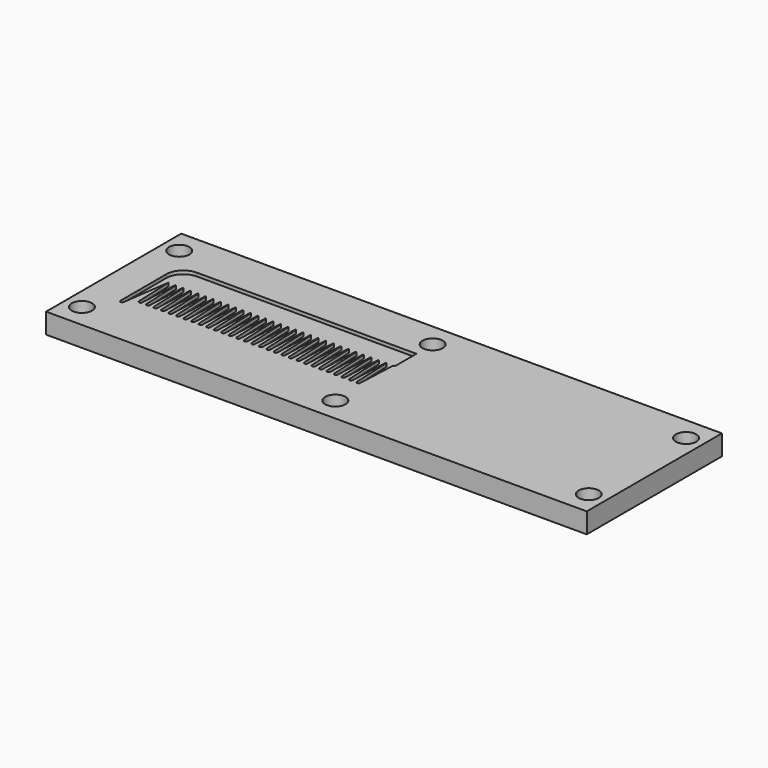
from build123d import *

# Parameters (mm, degrees)
SKETCH_W            = 160
SKETCH_H            = 50
SKETCH_R            = 3
PAD_DEPTH           = 6
POCKET_DEPTH        = 1
POCKET001_DEPTH     = 1
LINEARPATTERN_COUNT = 30
LINEARPATTERN_PITCH = 2.224138
FILLET_R            = 5


with BuildPart() as part:
    # Sketch → Pad (new body)
    with BuildSketch(Plane.XY):
        Rectangle(SKETCH_W, SKETCH_H)
        with Locations((-75, 18)):
            Circle(SKETCH_R, mode=Mode.SUBTRACT)
        with Locations((75, 18)):
            Circle(SKETCH_R, mode=Mode.SUBTRACT)
        with Locations((75, -18)):
            Circle(SKETCH_R, mode=Mode.SUBTRACT)
        with Locations((-75, -18)):
            Circle(SKETCH_R, mode=Mode.SUBTRACT)
        with Locations((0, -18)):
            Circle(SKETCH_R, mode=Mode.SUBTRACT)
        with Locations((0, 18)):
            Circle(SKETCH_R, mode=Mode.SUBTRACT)
    extrude(amount=PAD_DEPTH)

    # Sketch001 (on Face12 of Pad) → Pocket (cut)
    with BuildSketch(Plane.XY.offset(6)):
        with BuildLine():
            Line((-70, -10), (-70, 12))
            Line((-70, 12), (0, 12))
            Line((0, 12), (0, 4))
            Line((0, 4), (-67, 4))
            Line((-67, 4), (-69.005, -10.070536))
            ThreePointArc((-70, -10), (-69.535356, -10.498748), (-69.005, -10.070536))
        make_face()
    extrude(amount=-POCKET_DEPTH, mode=Mode.SUBTRACT)

    # Sketch002 → Pocket001 (cut)
    with BuildSketch(Plane.XY.offset(6)):
        with BuildLine():
            Line((-67, 4), (-66.5, -7.521698))
            ThreePointArc((-66.5, -7.521698), (-66, -8.000471), (-65.5, -7.521698))
            Line((-65, 4), (-65.5, -7.521698))
            Line((-67, 4), (-65, 4))
        make_face()
    pocket001 = extrude(amount=-POCKET001_DEPTH, mode=Mode.SUBTRACT)

    # LinearPattern: Pocket001 ×30
    with Locations(*[(i * LINEARPATTERN_PITCH, 0, 0) for i in range(1, LINEARPATTERN_COUNT)]):
        add(pocket001, mode=Mode.SUBTRACT)

    # Fillet
    fillet_edges = [part.edges().sort_by_distance(p)[0] for p in [
        (-70, 12, 5.5),
    ]]
    fillet(fillet_edges, radius=FILLET_R)


solid = part.part
